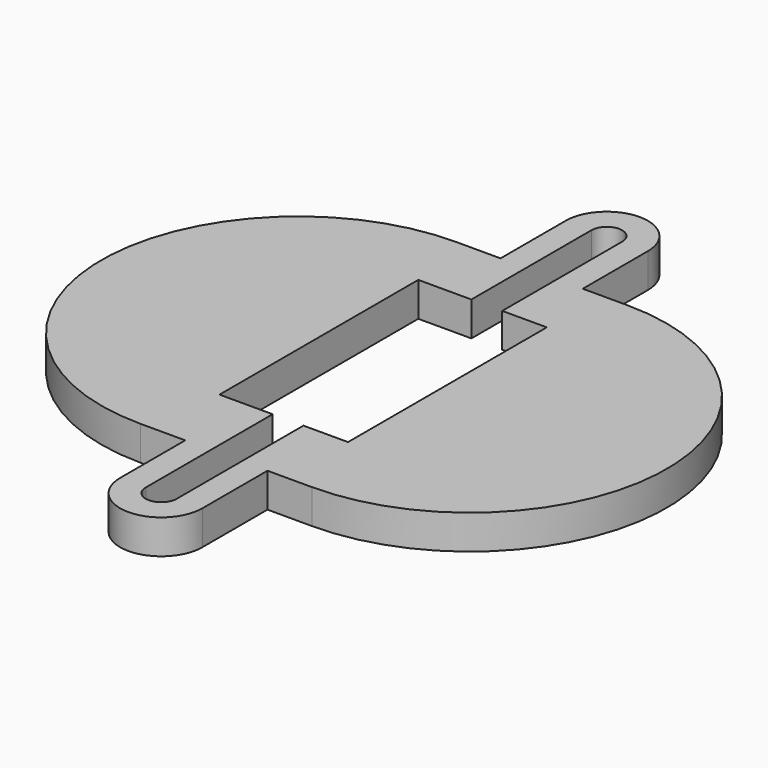
from build123d import *

# Parameters (mm, degrees)
BOX002_W          = 3.6
BOX002_H          = 65
BOX002_DEPTH      = 10
CYLINDER004_R     = 1.8
CYLINDER004_DEPTH = 10
ARRAY_Y_COUNT     = 2
ARRAY_Y_PITCH     = 65
BOX004_W          = 15
BOX004_H          = 29
BOX004_DEPTH      = 10
BOX003_W          = 9.6
BOX003_H          = 65
BOX003_DEPTH      = 4
BOX005_W          = 20
BOX005_H          = 46
BOX005_DEPTH      = 4
CYLINDER006_W     = 23
CYLINDER006_H     = 4
CYLINDER006_ANGLE = 180
CYLINDER005_R     = 4.8
CYLINDER005_DEPTH = 4
ARRAY001_Y_COUNT  = 2
ARRAY001_Y_PITCH  = 65


with BuildPart() as cube002:
    # Box002 → Box002 (new body)
    with BuildSketch(Plane(origin=(-1.8, -32.5, 0), x_dir=(1, 0, 0), z_dir=(0, 0, 1))):
        with Locations((1.8, 32.5)):
            Rectangle(BOX002_W, BOX002_H)
    extrude(amount=BOX002_DEPTH)


with BuildPart() as bolt_hole_fusion:
    # Cylinder004 → Cylinder004 (new body)
    with BuildSketch(Plane.XY):
        Circle(CYLINDER004_R)
    extrude(amount=CYLINDER004_DEPTH)

    # Array Y: bolt hole fusion ×2


with BuildPart() as bolt_hole_fusion_1:
    add(bolt_hole_fusion.part)
    with Locations(*[(0, i * ARRAY_Y_PITCH, 0) for i in range(1, ARRAY_Y_COUNT)]):
        add(bolt_hole_fusion.part)


with BuildPart() as bolt_hole_fusion_2:
    # Array placement: moved
    add(bolt_hole_fusion_1.part.moved(Location((0, -32.5, 0))))

    # Fusion003: union Cube002
    add(cube002.part)


with BuildPart() as extract_fusion:
    # Box004 → Box004 (new body)
    with BuildSketch(Plane(origin=(-8, -14, 0), x_dir=(1, 0, 0), z_dir=(0, 0, 1))):
        with Locations((7.5, 14.5)):
            Rectangle(BOX004_W, BOX004_H)
    extrude(amount=BOX004_DEPTH)

    # Fusion005: union bolt hole fusion
    add(bolt_hole_fusion_2.part)


with BuildPart() as wall_cube:
    # Box003 → Box003 (new body)
    with BuildSketch(Plane(origin=(-4.8, -32.5, 0), x_dir=(1, 0, 0), z_dir=(0, 0, 1))):
        with Locations((4.8, 32.5)):
            Rectangle(BOX003_W, BOX003_H)
    extrude(amount=BOX003_DEPTH)


with BuildPart() as obj1:
    # Box005 → Box005 (new body)
    with BuildSketch(Plane(origin=(-10, -23, 0), x_dir=(1, 0, 0), z_dir=(0, 0, 1))):
        with Locations((10, 23)):
            Rectangle(BOX005_W, BOX005_H)
    extrude(amount=BOX005_DEPTH)


with BuildPart() as cover_cylinder:
    # Cylinder006 → Cylinder006 (revolve)
    with BuildSketch(Plane(origin=(10, 0, 0), x_dir=(0, -1, 0), z_dir=(-1, 0, 0))):
        with Locations((11.5, 2)):
            Rectangle(CYLINDER006_W, CYLINDER006_H)
    revolve(axis=Axis((10, 0, 0), (0, 0, 1)), revolution_arc=CYLINDER006_ANGLE)


with BuildPart() as part_mirroring:
    # Part__Mirroring: instance of cover cylinder
    add(cover_cylinder.part.mirror(Plane(origin=(0, 0, 0), x_dir=(0, -1, 0), z_dir=(1, 0, 0))))


with BuildPart() as microscope_attachment_cut:
    # Cylinder005 → Cylinder005 (new body)
    with BuildSketch(Plane.XY):
        Circle(CYLINDER005_R)
    extrude(amount=CYLINDER005_DEPTH)

    # Array001 Y: microscope attachment cut ×2


with BuildPart() as microscope_attachment_cut_1:
    add(microscope_attachment_cut.part)
    with Locations(*[(0, i * ARRAY001_Y_PITCH, 0) for i in range(1, ARRAY001_Y_COUNT)]):
        add(microscope_attachment_cut.part)


with BuildPart() as microscope_attachment_cut_2:
    # Array001 placement: moved
    add(microscope_attachment_cut_1.part.moved(Location((0, -32.5, 0))))

    # Fusion004: union wall cube, obj1, Part__Mirroring, cover cylinder
    add(wall_cube.part)
    add(obj1.part)
    add(part_mirroring.part)
    add(cover_cylinder.part)

    # Cut001: cut extract fusion
    add(extract_fusion.part, mode=Mode.SUBTRACT)


solid = microscope_attachment_cut_2.part
